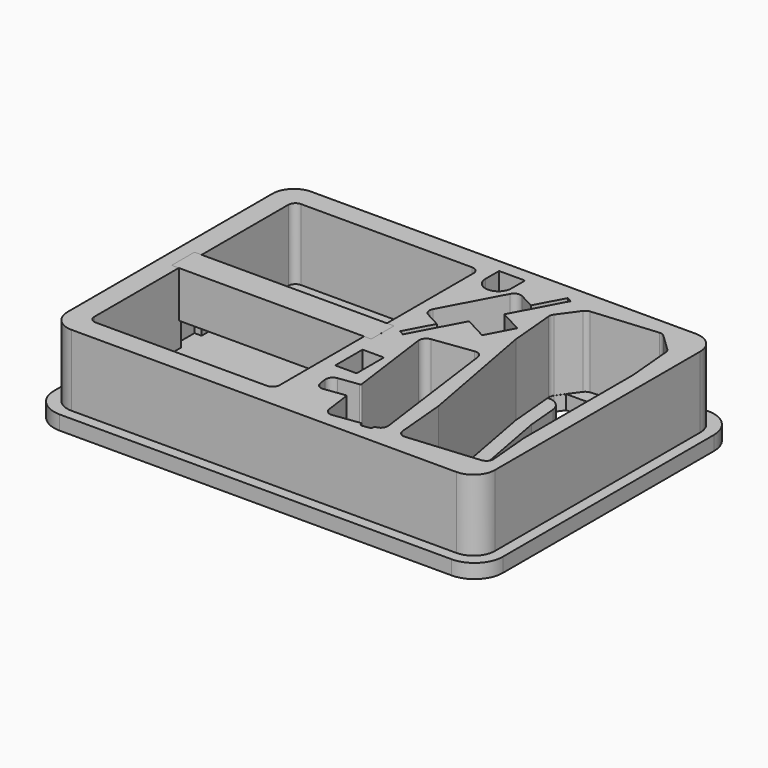
from build123d import *

# Parameters (mm, degrees)
F0_W     = 19.05
F0_H     = 30.48
F1_DEPTH = 63.5
F3_DEPTH = 12.7
F5_DEPTH = 12.7
F6_W     = 177.8
F6_H     = 41.275
F7_DEPTH = 25.4


with BuildPart() as f1:
    # F0 (on Top) → F1 (new body)
    with BuildSketch(Plane.XY):
        with BuildLine():
            Line((171.365852, 124.160711), (-171.534148, 124.160711))
            ThreePointArc((-171.534148, 124.160711), (-185.004533, 118.581095), (-190.584148, 105.110711))
            Line((-190.584148, 105.110711), (-190.584148, -123.489289))
            ThreePointArc((-190.584148, -123.489289), (-185.004533, -136.959673), (-171.534148, -142.539289))
            Line((-171.534148, -142.539289), (171.365852, -142.539289))
            ThreePointArc((171.365852, -142.539289), (184.836236, -136.959673), (190.415852, -123.489289))
            Line((190.415852, -123.489289), (190.415852, 105.110711))
            ThreePointArc((190.415852, 105.110711), (184.836236, 118.581095), (171.365852, 124.160711))
        make_face()
        with Locations((14.686511, -54.604719)):
            Rectangle(F0_W, F0_H, mode=Mode.SUBTRACT)
        with BuildLine():
            ThreePointArc((26.977877, -4.491696), (28.221591, 0.206553), (32.423194, 2.649279))
            Line((32.423194, 2.649279), (67.664811, 7.397122))
            ThreePointArc((67.664811, 7.397122), (72.36306, 6.153407), (74.805786, 1.951805))
            Line((74.805786, 1.951805), (90.914538, -117.617968))
            ThreePointArc((90.914538, -117.617968), (89.670824, -122.316218), (85.469221, -124.758943))
            Line((85.469221, -124.758943), (85.154564, -124.801335))
            ThreePointArc((85.154564, -124.801335), (84.314243, -125.28988), (84.0655, -126.22953))
            Line((84.0655, -126.22953), (84.150283, -126.858844))
            ThreePointArc((84.150283, -126.858844), (83.90154, -127.798494), (83.06122, -128.287039))
            Line((83.06122, -128.287039), (76.138759, -129.219651))
            ThreePointArc((76.138759, -129.219651), (75.199109, -128.970909), (74.710564, -128.130588))
            Line((74.710564, -128.130588), (74.625781, -127.501273))
            ThreePointArc((74.625781, -127.501273), (74.137236, -126.660953), (73.197586, -126.41221))
            Line((73.197586, -126.41221), (50.227604, -129.506786))
            ThreePointArc((50.227604, -129.506786), (45.529354, -128.263072), (43.086629, -124.061469))
            Line((43.086629, -124.061469), (40.034444, -101.406144))
            ThreePointArc((40.034444, -101.406144), (39.545899, -100.565823), (38.606249, -100.31708))
            Line((38.606249, -100.31708), (20.98544, -102.691002))
            ThreePointArc((20.98544, -102.691002), (16.287191, -101.447288), (13.844465, -97.245685))
            Line((13.844465, -97.245685), (12.996636, -90.952539))
            ThreePointArc((12.996636, -90.952539), (14.24035, -86.254289), (18.441953, -83.811564))
            Line((18.441953, -83.811564), (36.062762, -81.437643))
            ThreePointArc((36.062762, -81.437643), (36.903082, -80.949097), (37.151825, -80.009448))
            Line((37.151825, -80.009448), (26.977877, -4.491696))
        make_face(mode=Mode.SUBTRACT)
        with BuildLine():
            ThreePointArc((-171.534148, 98.760711), (-169.674277, 103.250839), (-165.184148, 105.110711))
            Line((-165.184148, 105.110711), (-12.784148, 105.110711))
            ThreePointArc((-12.784148, 105.110711), (-8.29402, 103.250839), (-6.434148, 98.760711))
            Line((-6.434148, 98.760711), (-6.434148, 2.240711))
            Line((-6.434148, 2.240711), (-0.077571, 2.240711))
            Line((-0.077571, 2.240711), (-0.077571, -20.619289))
            Line((-0.077571, -20.619289), (-6.434148, -20.619289))
            Line((-6.434148, -20.619289), (-6.434148, -117.139289))
            ThreePointArc((-6.434148, -117.139289), (-8.29402, -121.629417), (-12.784148, -123.489289))
            Line((-12.784148, -123.489289), (-165.184148, -123.489289))
            ThreePointArc((-165.184148, -123.489289), (-169.674277, -121.629417), (-171.534148, -117.139289))
            Line((-171.534148, -117.139289), (-171.534148, -20.619289))
            Line((-171.534148, -20.619289), (-177.890726, -20.619289))
            Line((-177.890726, -20.619289), (-177.890726, 2.240711))
            Line((-177.890726, 2.240711), (-171.534148, 2.240711))
            Line((-171.534148, 2.240711), (-171.534148, 98.760711))
        make_face(mode=Mode.SUBTRACT)
        with BuildLine():
            Line((5.333242, 38.922141), (19.125657, 64.670799))
            Line((19.125657, 64.670799), (32.918072, 90.419457))
            ThreePointArc((32.918072, 90.419457), (36.677707, 93.499315), (41.513958, 93.01864))
            Line((41.513958, 93.01864), (54.94804, 85.822597))
            Line((54.94804, 85.822597), (68.140785, 110.451748))
            Line((68.140785, 110.451748), (72.618813, 108.053067))
            Line((72.618813, 108.053067), (48.931838, 63.832546))
            Line((48.931838, 63.832546), (69.082962, 53.038482))
            Line((69.082962, 53.038482), (62.786425, 41.28366))
            Line((62.786425, 41.28366), (56.489887, 29.528838))
            Line((56.489887, 29.528838), (36.338764, 40.322902))
            Line((36.338764, 40.322902), (12.651789, -3.897619))
            Line((12.651789, -3.897619), (8.173762, -1.498938))
            Line((8.173762, -1.498938), (21.366507, 23.130213))
            Line((21.366507, 23.130213), (7.932425, 30.326256))
            ThreePointArc((7.932425, 30.326256), (4.852567, 34.08589), (5.333242, 38.922141))
        make_face(mode=Mode.SUBTRACT)
        with BuildLine():
            ThreePointArc((88.383574, 101.861199), (90.389482, 103.656058), (92.958713, 104.458703))
            Line((92.958713, 104.458703), (150.448664, 109.60254))
            ThreePointArc((150.448664, 109.60254), (153.119575, 109.268751), (155.412256, 107.858503))
            Line((155.412256, 107.858503), (170.443271, 93.427984))
            ThreePointArc((170.443271, 93.427984), (171.770284, 91.595055), (172.37031, 89.413185))
            Line((172.37031, 89.413185), (176.063113, 48.14069))
            Line((176.063113, 48.14069), (176.063113, -72.991281))
            Line((176.063113, -72.991281), (179.458496, -110.939685))
            ThreePointArc((179.458496, -110.939685), (178.006174, -115.577695), (173.699659, -117.830317))
            Line((173.699659, -117.830317), (110.452319, -123.489289))
            ThreePointArc((110.452319, -123.489289), (105.814309, -122.036967), (103.561688, -117.730452))
            Line((103.561688, -117.730452), (99.558709, -72.991281))
            Line((99.558709, -72.991281), (78.662209, 39.425873))
            Line((78.662209, 39.425873), (74.969407, 80.698367))
            ThreePointArc((74.969407, 80.698367), (75.172563, 82.952101), (76.153105, 84.991495))
            Line((76.153105, 84.991495), (88.383574, 101.861199))
        make_face(mode=Mode.SUBTRACT)
        with BuildLine():
            Line((5.330521, 97.266033), (5.330521, 112.506033))
            Line((5.330521, 112.506033), (28.444521, 112.506033))
            Line((28.444521, 112.506033), (28.444521, 97.266033))
            ThreePointArc((28.444521, 97.266033), (16.887521, 85.709033), (5.330521, 97.266033))
        make_face(mode=Mode.SUBTRACT)
    extrude(amount=F1_DEPTH)


with BuildPart() as f3:
    # F2 (on Top) → F3 (new body)
    with BuildSketch(Plane.XY):
        with BuildLine():
            Line((158.665852, 111.460711), (-158.834148, 111.460711))
            ThreePointArc((-158.834148, 111.460711), (-172.304533, 105.881095), (-177.884148, 92.410711))
            Line((-177.884148, 92.410711), (-177.884148, 9.860711))
            Line((-177.884148, 9.860711), (-177.884148, -28.239289))
            Line((-177.884148, -28.239289), (-177.884148, -110.789289))
            ThreePointArc((-177.884148, -110.789289), (-172.304533, -124.259673), (-158.834148, -129.839289))
            Line((-158.834148, -129.839289), (158.665852, -129.839289))
            ThreePointArc((158.665852, -129.839289), (172.136236, -124.259673), (177.715852, -110.789289))
            Line((177.715852, -110.789289), (177.715852, 92.410711))
            ThreePointArc((177.715852, 92.410711), (172.136236, 105.881095), (158.665852, 111.460711))
        make_face()
        with BuildLine():
            Line((91.258131, 41.156116), (88.865814, 67.893786))
            ThreePointArc((88.865814, 67.893786), (84.787116, 76.133859), (76.216346, 79.461992))
            Line((76.216346, 79.461992), (-31.834148, 79.461992))
            ThreePointArc((-31.834148, 79.461992), (-38.136554, 85.764397), (-31.834148, 92.066802))
            Line((-31.834148, 92.066802), (96.969201, 92.066802))
            Line((96.969201, 92.066802), (142.944375, 96.18037))
            ThreePointArc((142.944375, 96.18037), (148.286198, 95.512791), (152.87156, 92.692295))
            Line((152.87156, 92.692295), (156.502431, 89.206478))
            ThreePointArc((156.502431, 89.206478), (159.156456, 85.540621), (160.356509, 81.17688))
            Line((160.356509, 81.17688), (163.363113, 47.573665))
            Line((163.363113, 47.573665), (163.363113, -73.558307))
            Line((163.363113, -73.558307), (165.111336, -93.097278))
            ThreePointArc((165.111336, -93.097278), (162.206692, -102.373297), (153.593663, -106.87854))
            Line((153.593663, -106.87854), (128.294727, -109.142129))
            ThreePointArc((128.294727, -109.142129), (119.018707, -106.237485), (114.513464, -97.624456))
            Line((114.513464, -97.624456), (112.154632, -71.261038))
            Line((112.154632, -71.261038), (91.258131, 41.156116))
        make_face(mode=Mode.SUBTRACT)
    extrude(amount=-F3_DEPTH)


with BuildPart() as f5:
    # F4 (on Top) → F5 (new body)
    with BuildSketch(Plane.XY):
        with BuildLine():
            Line((174.743748, 133.693885), (-174.506252, 133.693885))
            ThreePointArc((-174.506252, 133.693885), (-192.466764, 126.254398), (-199.906252, 108.293885))
            Line((-199.906252, 108.293885), (-199.906252, -126.656115))
            ThreePointArc((-199.906252, -126.656115), (-192.466764, -144.616627), (-174.506252, -152.056115))
            Line((-174.506252, -152.056115), (174.743748, -152.056115))
            ThreePointArc((174.743748, -152.056115), (192.70426, -144.616627), (200.143748, -126.656115))
            Line((200.143748, -126.656115), (200.143748, 108.293885))
            ThreePointArc((200.143748, 108.293885), (192.70426, 126.254398), (174.743748, 133.693885))
        make_face()
        with BuildLine():
            Line((5.364407, -69.836545), (5.364407, -39.356545))
            ThreePointArc((5.364407, -39.356545), (14.894922, -29.82603), (24.425436, -39.356545))
            Line((24.425436, -39.356545), (24.425436, -69.836545))
            ThreePointArc((24.425436, -69.836545), (14.894922, -79.367059), (5.364407, -69.836545))
        make_face(mode=Mode.SUBTRACT)
        with BuildLine():
            ThreePointArc((27.180773, -4.483522), (28.424487, 0.214728), (32.62609, 2.657453))
            Line((32.62609, 2.657453), (67.867708, 7.405296))
            ThreePointArc((67.867708, 7.405296), (72.565957, 6.161582), (75.008683, 1.959979))
            Line((75.008683, 1.959979), (91.117434, -117.609794))
            ThreePointArc((91.117434, -117.609794), (89.87372, -122.308043), (85.672118, -124.750769))
            Line((85.672118, -124.750769), (85.344874, -124.794856))
            ThreePointArc((85.344874, -124.794856), (84.504553, -125.283401), (84.255811, -126.223051))
            Line((84.255811, -126.223051), (84.340593, -126.852366))
            ThreePointArc((84.340593, -126.852366), (84.091851, -127.792015), (83.25153, -128.280561))
            Line((83.25153, -128.280561), (76.32907, -129.213173))
            ThreePointArc((76.32907, -129.213173), (75.38942, -128.96443), (74.900875, -128.124109))
            Line((74.900875, -128.124109), (74.816092, -127.494795))
            ThreePointArc((74.816092, -127.494795), (74.327547, -126.654474), (73.387897, -126.405731))
            Line((73.387897, -126.405731), (50.4305, -129.498612))
            ThreePointArc((50.4305, -129.498612), (45.732251, -128.254897), (43.289525, -124.053295))
            Line((43.289525, -124.053295), (40.067775, -100.13934))
            Line((40.067775, -100.13934), (21.188337, -102.682827))
            ThreePointArc((21.188337, -102.682827), (16.490087, -101.439113), (14.047362, -97.23751))
            Line((14.047362, -97.23751), (13.199533, -90.944364))
            ThreePointArc((13.199533, -90.944364), (14.442423, -86.244995), (18.644598, -83.80152))
            Line((18.644598, -83.80152), (37.524036, -81.258032))
            Line((37.524036, -81.258032), (27.180773, -4.483522))
        make_face(mode=Mode.SUBTRACT)
        with BuildLine():
            ThreePointArc((-177.681252, 101.943885), (-173.961508, 110.924142), (-164.981252, 114.643885))
            Line((-164.981252, 114.643885), (-12.581252, 114.643885))
            ThreePointArc((-12.581252, 114.643885), (-3.600996, 110.924142), (0.118748, 101.943885))
            Line((0.118748, 101.943885), (0.118748, -120.306115))
            ThreePointArc((0.118748, -120.306115), (-3.600996, -129.286371), (-12.581252, -133.006115))
            Line((-12.581252, -133.006115), (-164.981252, -133.006115))
            ThreePointArc((-164.981252, -133.006115), (-173.961508, -129.286371), (-177.681252, -120.306115))
            Line((-177.681252, -120.306115), (-177.681252, -18.706115))
            ThreePointArc((-177.681252, -18.706115), (-187.206252, -9.181115), (-177.681252, 0.343885))
            Line((-177.681252, 0.343885), (-177.681252, 101.943885))
        make_face(mode=Mode.SUBTRACT)
        with BuildLine():
            Line((5.536138, 38.930316), (19.328554, 64.678974))
            Line((19.328554, 64.678974), (33.120969, 90.427632))
            ThreePointArc((33.120969, 90.427632), (36.880603, 93.507489), (41.716854, 93.026815))
            Line((41.716854, 93.026815), (55.150937, 85.830772))
            Line((55.150937, 85.830772), (68.343682, 110.459923))
            Line((68.343682, 110.459923), (72.821709, 108.061242))
            Line((72.821709, 108.061242), (49.134735, 63.840721))
            Line((49.134735, 63.840721), (69.285859, 53.046657))
            Line((69.285859, 53.046657), (62.989321, 41.291835))
            Line((62.989321, 41.291835), (56.692784, 29.537013))
            Line((56.692784, 29.537013), (36.54166, 40.331077))
            Line((36.54166, 40.331077), (12.854686, -3.889444))
            Line((12.854686, -3.889444), (8.376659, -1.490763))
            Line((8.376659, -1.490763), (21.569404, 23.138388))
            Line((21.569404, 23.138388), (8.135321, 30.33443))
            ThreePointArc((8.135321, 30.33443), (5.055464, 34.094065), (5.536138, 38.930316))
        make_face(mode=Mode.SUBTRACT)
        with BuildLine():
            ThreePointArc((88.586471, 101.869374), (90.592379, 103.664233), (93.161609, 104.466877))
            Line((93.161609, 104.466877), (150.65156, 109.610715))
            ThreePointArc((150.65156, 109.610715), (153.322472, 109.276925), (155.615153, 107.866677))
            Line((155.615153, 107.866677), (170.646168, 93.436158))
            ThreePointArc((170.646168, 93.436158), (171.97318, 91.60323), (172.573207, 89.421359))
            Line((172.573207, 89.421359), (176.266009, 48.148865))
            Line((176.266009, 48.148865), (176.266009, -72.983107))
            Line((176.266009, -72.983107), (179.661393, -110.931511))
            ThreePointArc((179.661393, -110.931511), (178.209071, -115.569521), (173.902556, -117.822142))
            Line((173.902556, -117.822142), (110.655216, -123.481115))
            ThreePointArc((110.655216, -123.481115), (106.017206, -122.028793), (103.764585, -117.722278))
            Line((103.764585, -117.722278), (99.761606, -72.983107))
            Line((99.761606, -72.983107), (78.865105, 39.434047))
            Line((78.865105, 39.434047), (75.172303, 80.706542))
            ThreePointArc((75.172303, 80.706542), (75.37546, 82.960276), (76.356001, 84.99967))
            Line((76.356001, 84.99967), (88.586471, 101.869374))
        make_face(mode=Mode.SUBTRACT)
        with BuildLine():
            Line((5.533418, 97.274208), (5.533418, 112.514208))
            ThreePointArc((5.533418, 112.514208), (17.090418, 124.071208), (28.647418, 112.514208))
            Line((28.647418, 112.514208), (28.647418, 97.274208))
            ThreePointArc((28.647418, 97.274208), (17.090418, 85.717208), (5.533418, 97.274208))
        make_face(mode=Mode.SUBTRACT)
    extrude(amount=-F5_DEPTH)


with BuildPart() as f7:
    # F6 (on face) → F7 (new body)
    with BuildSketch(Plane.XZ.offset(-2.240711)):
        with Locations((-88.990726, 42.8625)):
            Rectangle(F6_W, F6_H)
    extrude(amount=F7_DEPTH)


solid = Compound([f1.part, f3.part, f5.part, f7.part])
